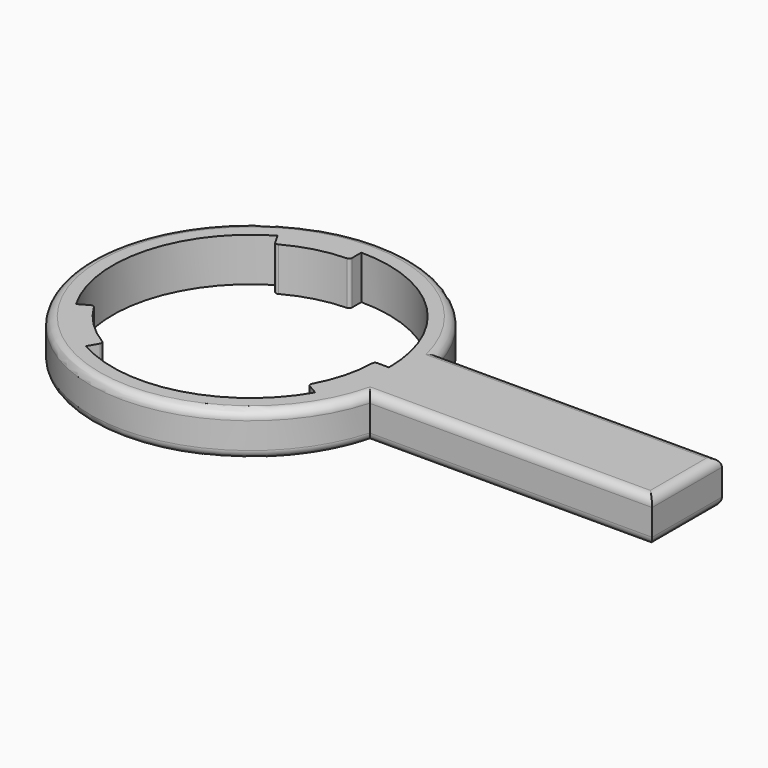
from build123d import *

# Parameters (mm, degrees)
F1_DEPTH = 15
F2_R     = 3
F3_R     = 1


with BuildPart() as f1:
    # F0 (on Top) → F1 (new body)
    with BuildSketch(Plane.XY):
        with BuildLine():
            Line((150, 15), (52.915026, 15))
            ThreePointArc((52.915026, 15), (-55, 0), (52.915026, -15))
            Line((52.915026, -15), (150, -15))
            Line((150, -15), (150, 15))
        make_face()
        with BuildLine():
            ThreePointArc((-21.25, -36.80608), (-30.052038, -30.052038), (-36.80608, -21.25))
            Line((-36.80608, -21.25), (-41.136207, -23.75))
            ThreePointArc((-41.136207, -23.75), (-45.881477, 12.293905), (-23.75, 41.136207))
            Line((-23.75, 41.136207), (-21.25, 36.80608))
            ThreePointArc((-21.25, 36.80608), (-10.999809, 41.051848), (0, 42.5))
            Line((0, 42.5), (0, 47.5))
            ThreePointArc((0, 47.5), (33.587572, 33.587572), (47.5, 0))
            Line((47.5, 0), (42.5, 0))
            ThreePointArc((42.5, 0), (41.051848, -10.999809), (36.80608, -21.25))
            Line((36.80608, -21.25), (41.136207, -23.75))
            ThreePointArc((41.136207, -23.75), (12.293905, -45.881477), (-23.75, -41.136207))
            Line((-23.75, -41.136207), (-21.25, -36.80608))
        make_face(mode=Mode.SUBTRACT)
    extrude(amount=F1_DEPTH)

    # F2
    f2_edges = [f1.edges().sort_by_distance(p)[0] for p in [
        (101.457513, 15, 15),
        (150, 0, 15),
        (101.457513, -15, 15),
        (-55, 0, 15),
        (101.457513, -15, 0),
        (150, 0, 0),
        (-55, 0, 0),
        (101.457513, 15, 0),
    ]]
    fillet(f2_edges, radius=F2_R)

    # F3
    f3_edges = [f1.edges().sort_by_distance(p)[0] for p in [
        (36.80608, -21.25, 7.5),
        (42.5, 0, 7.5),
        (0, 42.5, 7.5),
        (-21.25, 36.80608, 7.5),
        (-21.25, -36.80608, 7.5),
        (-36.80608, -21.25, 7.5),
    ]]
    fillet(f3_edges, radius=F3_R)


solid = f1.part
